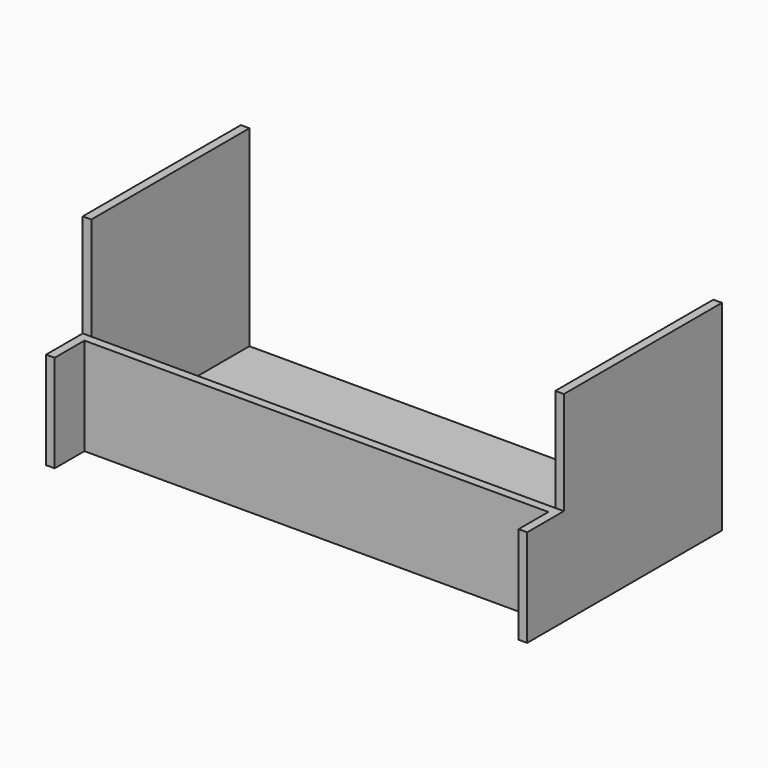
from build123d import *

# Parameters (mm, degrees)
F0_W     = 1066.8
F0_H     = 457.2
F1_DEPTH = 19.05
F2_W     = 19.05
F2_H     = 438.15
F3_DEPTH = 425.45
F4_DEPTH = 196.85
F6_W     = 19.05
F6_H     = 215.9
F7_DEPTH = 82.55


with BuildPart() as f1:
    # F0 (on Top) → F1 (new body)
    with BuildSketch(Plane.XY):
        Rectangle(F0_W, F0_H)
    extrude(amount=F1_DEPTH)

    # F2 (on face) → F3 (join)
    with BuildSketch(Plane.XY.offset(19.05)):
        with Locations((523.875, 9.525)):
            Rectangle(F2_W, F2_H)
        with Locations((-523.875, 9.525)):
            Rectangle(F2_W, F2_H)
    extrude(amount=F3_DEPTH)

    # F2 (on face) → F4 (join)
    with BuildSketch(Plane.XY.offset(19.05)):
        Polygon((-514.35, -209.55), (-533.4, -209.55), (-533.4, -228.6), (533.4, -228.6), (533.4, -209.55), (514.35, -209.55), align=None)
    extrude(amount=F4_DEPTH)

    # F6 (on face) → F7 (join)
    with BuildSketch(Plane.XZ.offset(228.6)):
        with Locations((-523.875, 107.95)):
            Rectangle(F6_W, F6_H)
        with Locations((523.875, 107.95)):
            Rectangle(F6_W, F6_H)
    extrude(amount=F7_DEPTH)


solid = f1.part
